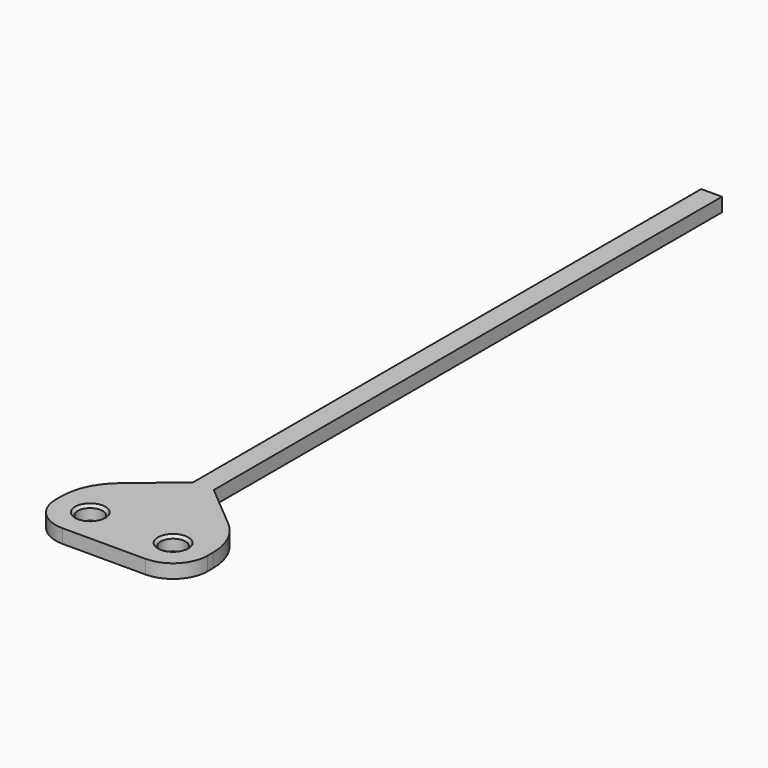
from build123d import *

# Parameters (mm, degrees)
SKETCH_R     = 1.8
PAD_DEPTH    = 2
CHAMFER_SIZE = 0.4


with BuildPart() as part:
    # Sketch → Pad (new body)
    with BuildSketch(Plane.XY):
        with BuildLine():
            Line((11, 0), (11, 1))
            ThreePointArc((11, 1), (10.197651, 4.626718), (7.940355, 7.576543))
            Line((1.5, 13), (7.940355, 7.576543))
            Line((1.5, 105), (1.5, 13))
            Line((-1.5, 105), (1.5, 105))
            Line((-1.5, 13), (-1.5, 105))
            Line((-1.5, 13), (-7.940355, 7.576543))
            ThreePointArc((-7.940355, 7.576543), (-10.197651, 4.626718), (-11, 1))
            Line((-11, 1), (-11, 0))
            ThreePointArc((-11, 0), (-9.535534, -3.535534), (-6, -5))
            Line((-6, -5), (6, -5))
            ThreePointArc((6, -5), (9.535534, -3.535534), (11, 0))
        make_face()
        with Locations((-6, 0)):
            Circle(SKETCH_R, mode=Mode.SUBTRACT)
        with Locations((6, 0)):
            Circle(SKETCH_R, mode=Mode.SUBTRACT)
    extrude(amount=PAD_DEPTH)

    # Chamfer
    chamfer_edges = [part.edges().sort_by_distance(p)[0] for p in [
        (-7.8, 0, 2),
        (4.2, 0, 2),
    ]]
    chamfer(chamfer_edges, length=CHAMFER_SIZE)


solid = part.part
